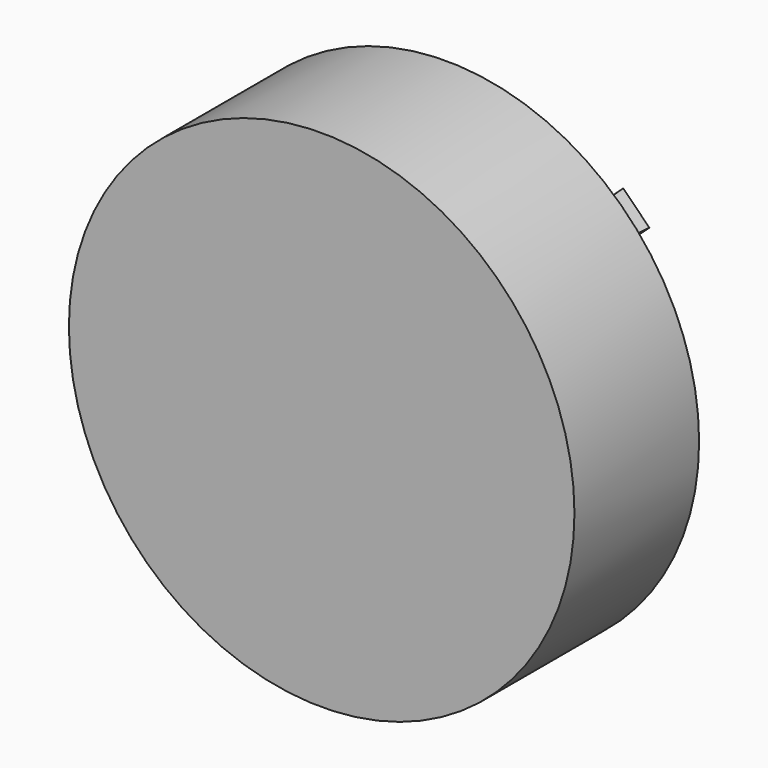
from build123d import *

# Parameters (mm, degrees)
F0_R     = 20.6032512537
F1_DEPTH = 12.7
F2_T     = -2.286
F4_DEPTH = 12.954
F4_TAPER = -3


with BuildPart() as f1:
    # F0 (on Front) → F1 (new body)
    with BuildSketch(Plane.XZ):
        Circle(F0_R)
    extrude(amount=F1_DEPTH)

    # F2
    f2_openings = [f1.faces().sort_by_distance(p)[0] for p in [
        (0, 0, 0),
    ]]
    offset(amount=F2_T, openings=f2_openings)


with BuildPart() as f4:
    # F3 (on face) → F4 (new body)
    with BuildSketch(Plane(origin=(0, -10.414, 0), x_dir=(-1, 0, 0), z_dir=(0, 1, 0))):
        Polygon((-12.3441766776, -13.5330334975), (0, 0), (13.5330334975, -12.3441766776), (14.5017178557, -11.1902579383), (1.014461328, 1.112163208), (12.3441766776, 13.5330334975), (11.2704234996, 14.4395030258), (0, 2.1605880465), (-12.3671734121, 13.51202114), (-13.5330334975, 12.3441766776), (-13.0478517911, 11.9016174609), (-1.0516488317, 0.9592630494), (-13.3584970167, -12.5328468812), align=None)
    extrude(amount=F4_DEPTH, taper=F4_TAPER)


solid = Compound([f1.part, f4.part])
